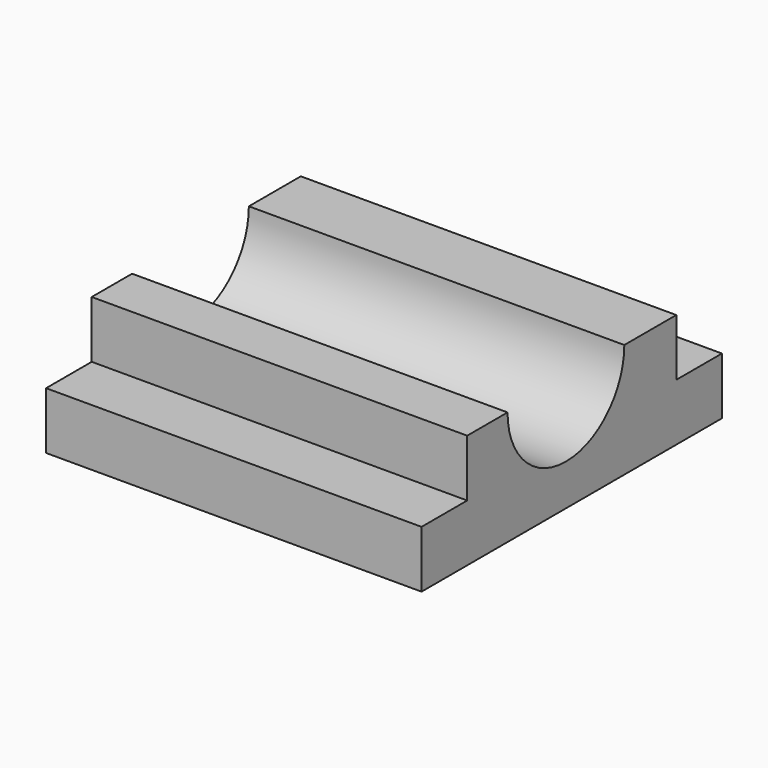
from build123d import *

# Parameters (mm, degrees)
F1_DEPTH = 127


with BuildPart() as f1:
    # F0 (on Right) → F1 (new body)
    with BuildSketch(Plane.YZ):
        with BuildLine():
            Line((-41.742593, -19.304), (-61.046593, -19.304))
            Line((-61.046593, -19.304), (-61.046593, -38.608))
            Line((-61.046593, -38.608), (65.953407, -38.608))
            Line((65.953407, -38.608), (65.953407, -19.304))
            Line((65.953407, -19.304), (46.649407, -19.304))
            Line((46.649407, -19.304), (46.649407, 0))
            Line((46.649407, 0), (40.045407, 0))
            Line((40.045407, 0), (24.686914, 0))
            ThreePointArc((24.686914, 0), (0, -24.686914), (-24.686914, 0))
            Line((-24.686914, 0), (-35.138593, 0))
            Line((-35.138593, 0), (-41.742593, 0))
            Line((-41.742593, 0), (-41.742593, -19.304))
        make_face()
    extrude(amount=F1_DEPTH)


solid = f1.part
